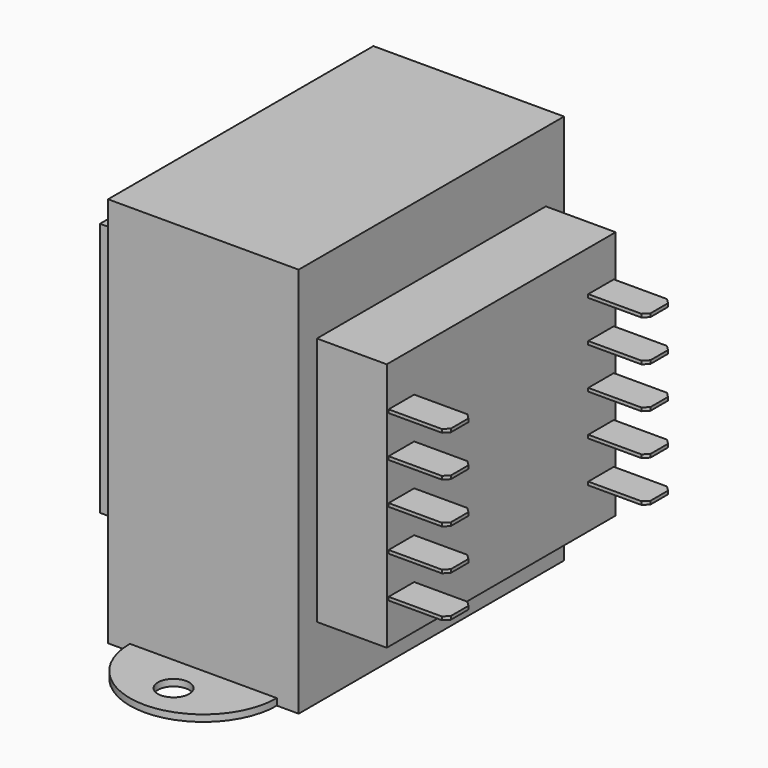
from build123d import *

# Parameters (mm, degrees)
F1_DEPTH = 58.75
F0_R     = 2.35
F2_DEPTH = 1
F3_W     = 28.5
F3_H     = 38.25
F4_DEPTH = 9.75
F5_W     = 43
F5_H     = 37.5
F6_DEPTH = 10.5
F7_W     = 4.8
F7_H     = 0.5
F8_DEPTH = 8.75
F9_SIZE  = 0.75


with BuildPart() as f1:
    # F0 (on Top) → F1 (new body)
    with BuildSketch(Plane.XY):
        Polygon((11.05, -24.925), (14.325, -24.925), (14.325, 24.925), (11.05, 24.925), (-11.05, 24.925), (-14.325, 24.925), (-14.325, -24.925), (-11.05, -24.925), align=None)
    extrude(amount=F1_DEPTH)

    # F0 (on Top) → F2 (join)
    with BuildSketch(Plane.XY):
        with BuildLine():
            ThreePointArc((-11.05, -24.925), (0, -35.975), (11.05, -24.925))
            Line((11.05, -24.925), (-11.05, -24.925))
        make_face()
        with Locations((0, -30.525)):
            Circle(F0_R, mode=Mode.SUBTRACT)
        with BuildLine():
            Line((-11.05, 24.925), (11.05, 24.925))
            ThreePointArc((11.05, 24.925), (0, 35.975), (-11.05, 24.925))
        make_face()
        with Locations((0, 30.525)):
            Circle(F0_R, mode=Mode.SUBTRACT)
    extrude(amount=F2_DEPTH)

    # F3 (on face) → F4 (join)
    with BuildSketch(Plane(origin=(-14.325, 0, 0), x_dir=(0, -1, 0), z_dir=(-1, 0, 0))):
        with Locations((0, 28.875)):
            Rectangle(F3_W, F3_H)
    extrude(amount=F4_DEPTH)

    # F5 (on face) → F6 (join)
    with BuildSketch(Plane.YZ.offset(14.325)):
        with Locations((0, 29.5)):
            Rectangle(F5_W, F5_H)
    extrude(amount=F6_DEPTH)

    # F7 (on face) → F8 (join)
    with BuildSketch(Plane.YZ.offset(24.825)):
        with Locations((-18.75, 29.5)):
            Rectangle(F7_W, F7_H)
        with Locations((-18.75, 35.7)):
            Rectangle(F7_W, F7_H)
        with Locations((-18.75, 41.9)):
            Rectangle(F7_W, F7_H)
        with Locations((-18.75, 17.1)):
            Rectangle(F7_W, F7_H)
        with Locations((-18.75, 23.3)):
            Rectangle(F7_W, F7_H)
        with Locations((18.75, 29.5)):
            Rectangle(F7_W, F7_H)
        with Locations((18.75, 35.7)):
            Rectangle(F7_W, F7_H)
        with Locations((18.75, 17.1)):
            Rectangle(F7_W, F7_H)
        with Locations((18.75, 23.3)):
            Rectangle(F7_W, F7_H)
        with Locations((18.75, 41.9)):
            Rectangle(F7_W, F7_H)
    extrude(amount=F8_DEPTH)

    # F9
    f9_edges = [f1.edges().sort_by_distance(p)[0] for p in [
        (33.575, -21.15, 41.9),
        (33.575, -16.35, 41.9),
        (33.575, -21.15, 35.7),
        (33.575, -16.35, 35.7),
        (33.575, -21.15, 29.5),
        (33.575, -16.35, 29.5),
        (33.575, -21.15, 17.1),
        (33.575, -16.35, 17.1),
        (33.575, 16.35, 17.1),
        (33.575, 21.15, 17.1),
        (33.575, 16.35, 29.5),
        (33.575, 21.15, 29.5),
        (33.575, 16.35, 35.7),
        (33.575, 21.15, 35.7),
        (33.575, 16.35, 41.9),
        (33.575, 21.15, 41.9),
        (33.575, -16.35, 23.3),
        (33.575, -21.15, 23.3),
        (33.575, 16.35, 23.3),
        (33.575, 21.15, 23.3),
    ]]
    chamfer(f9_edges, length=F9_SIZE)


solid = f1.part
